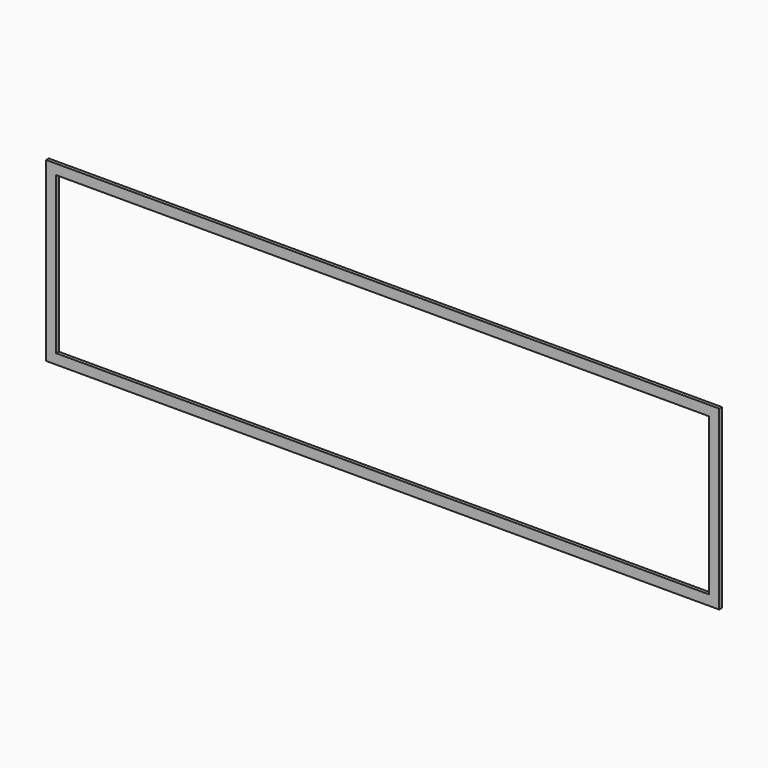
from build123d import *

# Parameters (mm, degrees)
F0_W     = 603
F0_H     = 160
F0_W_2   = 583
F0_H_2   = 140
F1_DEPTH = 3
F2_W     = 603
F2_H     = 160
F2_W_2   = 601
F2_H_2   = 158
F3_DEPTH = 25


with BuildPart() as f1:
    # F0 (on Front) → F1 (new body)
    with BuildSketch(Plane.XZ):
        Rectangle(F0_W, F0_H)
        Rectangle(F0_W_2, F0_H_2, mode=Mode.SUBTRACT)
    extrude(amount=F1_DEPTH)

    # F2 (on face) → F3 (cut)
    with BuildSketch(Plane.XZ.offset(3)):
        Rectangle(F2_W, F2_H)
        Rectangle(F2_W_2, F2_H_2, mode=Mode.SUBTRACT)
    extrude(amount=-F3_DEPTH, mode=Mode.SUBTRACT)


solid = f1.part
